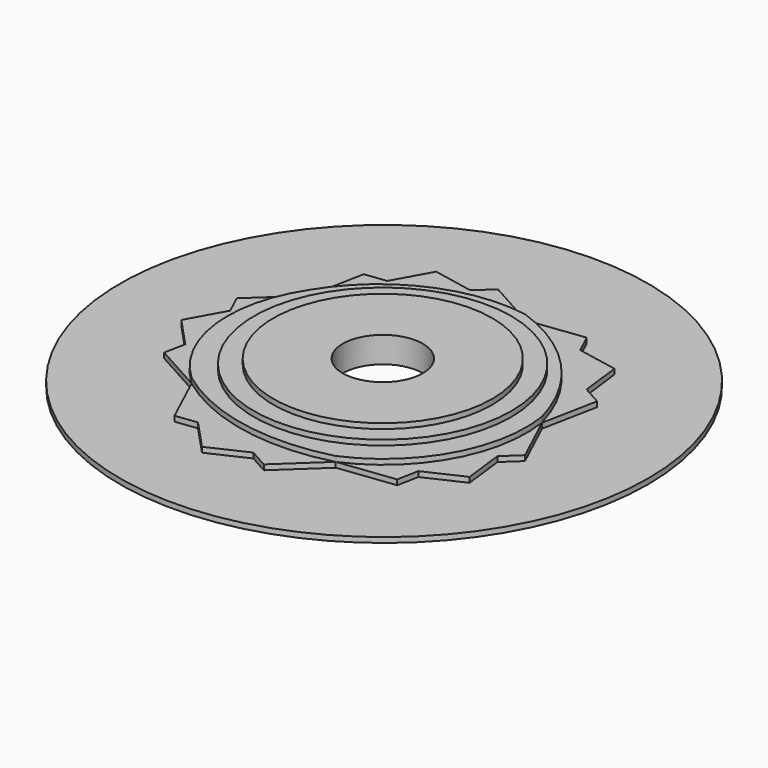
from build123d import *

# Parameters (mm, degrees)
F0_R     = 9.34954834
F1_DEPTH = 2
F2_R     = 9.9314109332
F3_DEPTH = 3
F4_R     = 24.7483511113
F4_R_2   = 9.9812356791
F5_DEPTH = 4
F6_R     = 21.0489130691
F6_R_2   = 7.6981825143
F7_DEPTH = 5
F8_R     = 50.7680243712
F8_R_2   = 10.127452023
F9_DEPTH = 1


with BuildPart() as f1:
    # F0 (on Top) → F1 (new body)
    with BuildSketch(Plane.XY):
        Polygon((-2.3253114279, 7.0025283952), (0.7141198772, 9.8394449822), (-3.8715197243, 19.6616453301), align=None)
        Polygon((-1.3632647613, -0.8739403047), (-2.3253114279, 7.0025283952), (-7.2580368413, 2.3984662733), (-8.5569428744, -4.2228637399), align=None)
        Polygon((-7.2580368413, 2.3984662733), (-2.3253114279, 7.0025283952), (-3.8715197243, 19.6616453301), align=None)
        Polygon((-7.2580368413, 2.3984662733), (-3.8715197243, 19.6616453301), (-11.3136030379, 35.6021988113), (-26.6853706311, 44.1575836885), (-44.1454681102, 42.0056437837), (-57.0322600669, 30.0299833677), (-60.3811104422, 12.7594578836), (-52.9738182843, -3.1972921683), (-37.5834241603, -11.7191240163), (-20.1186738854, -9.6052774824), align=None)
        with Locations((-32.1363285184, 16.2093285471)):
            Circle(F0_R, mode=Mode.SUBTRACT)
        Polygon((-5.4177280207, 32.3207622651), (-3.8715197243, 19.6616453301), (-1.7848262074, 30.2988169654), align=None)
        Polygon((-11.3136030379, 35.6021988113), (-3.8715197243, 19.6616453301), (-5.4177280207, 32.3207622651), align=None)
        Polygon((-8.5569428744, -4.2228637399), (-7.2580368413, 2.3984662733), (-20.1186738854, -9.6052774824), align=None)
        Polygon((-26.6853706311, 44.1575836885), (-11.3136030379, 35.6021988113), (-14.1680303391, 41.7162328976), align=None)
        Polygon((-14.1680303391, 41.7162328976), (-11.3136030379, 35.6021988113), (-5.4177280207, 32.3207622651), (-6.3797746873, 40.197230965), align=None)
        Polygon((-8.5569428744, -4.2228637399), (-20.1186738854, -9.6052774824), (-9.3572987281, -8.3027741418), align=None)
        Polygon((-31.6804048965, -14.9876912249), (-20.1186738854, -9.6052774824), (-37.5834241603, -11.7191240163), align=None)
        Polygon((-28.0431009638, -17.0017067365), (-20.1186738854, -9.6052774824), (-31.6804048965, -14.9876912249), align=None)
        Polygon((-26.6853706311, 44.1575836885), (-14.1680303391, 41.7162328976), (-15.9268624188, 45.4835592832), align=None)
        Polygon((-39.202710923, 46.5989344794), (-26.6853706311, 44.1575836885), (-36.1570982709, 49.4292139626), align=None)
        Polygon((-44.1454681102, 42.0056437837), (-26.6853706311, 44.1575836885), (-39.202710923, 46.5989344794), align=None)
        Polygon((-44.2820672543, -12.5298944689), (-37.5834241603, -11.7191240163), (-52.9738182843, -3.1972921683), align=None)
        Polygon((-31.6804048965, -14.9876912249), (-37.5834241603, -11.7191240163), (-44.2820672543, -12.5298944689), (-38.8740830096, -18.3366146601), align=None)
        Polygon((-57.0322600669, 30.0299833677), (-44.1454681102, 42.0056437837), (-50.8423266141, 41.1802625354), align=None)
        Polygon((-50.8423266141, 41.1802625354), (-44.1454681102, 42.0056437837), (-39.202710923, 46.5989344794), (-46.9909665748, 48.117936412), align=None)
        Polygon((-44.2820672543, -12.5298944689), (-52.9738182843, -3.1972921683), (-48.4096161882, -13.0294724686), align=None)
        Polygon((-61.6655693143, 6.1353101322), (-52.9738182843, -3.1972921683), (-60.3811104422, 12.7594578836), align=None)
        Polygon((-62.4570231615, 2.0536635052), (-52.9738182843, -3.1972921683), (-61.6655693143, 6.1353101322), align=None)
        Polygon((-57.0322600669, 30.0299833677), (-50.8423266141, 41.1802625354), (-54.968775925, 40.6716817015), align=None)
        Polygon((-63.2221935197, 18.8797042), (-57.0322600669, 30.0299833677), (-64.9728031974, 22.650858418), align=None)
        Polygon((-60.3811104422, 12.7594578836), (-57.0322600669, 30.0299833677), (-63.2221935197, 18.8797042), align=None)
        Polygon((-61.6655693143, 6.1353101322), (-60.3811104422, 12.7594578836), (-63.2221935197, 18.8797042), (-67.0735535589, 11.9420303234), align=None)
    extrude(amount=F1_DEPTH)

    # F2 (on Top) → F3 (join)
    with BuildSketch(Plane.XY):
        with BuildLine():
            ThreePointArc((-3.9161127061, 19.6736101061), (-12.2738953914, 34.7283526931), (-26.6918931156, 44.142127037))
            ThreePointArc((-26.6918931156, 44.142127037), (-44.0241929939, 41.7700167457), (-57.0044443011, 30.04190512))
            ThreePointArc((-57.0044443011, 30.04190512), (-61.0707346416, 12.665349743), (-52.9653914273, -3.2337950543))
            ThreePointArc((-52.9653914273, -3.2337950543), (-37.2668042058, -10.2120179587), (-20.0973842293, -9.6185086295))
            ThreePointArc((-20.0973842293, -9.6185086295), (-7.0292200811, 2.277912207), (-3.9161127061, 19.6736101061))
        make_face()
        with Locations((-31.4443483949, 17.2526501119)):
            Circle(F2_R, mode=Mode.SUBTRACT)
    extrude(amount=F3_DEPTH)

    # F4 (on Top) → F5 (join)
    with BuildSketch(Plane.XY):
        with Locations((-32.1926809847, 16.7406294495)):
            Circle(F4_R)
        with Locations((-32.1926809847, 16.7406294495)):
            Circle(F4_R_2, mode=Mode.SUBTRACT)
    extrude(amount=F5_DEPTH)

    # F6 (on Top) → F7 (join)
    with BuildSketch(Plane.XY):
        with Locations((-32.0071727037, 16.5551174432)):
            Circle(F6_R)
        with Locations((-32.0071727037, 16.5551174432)):
            Circle(F6_R_2, mode=Mode.SUBTRACT)
    extrude(amount=F7_DEPTH)

    # F8 (on Top) → F9 (join)
    with BuildSketch(Plane.XY):
        with Locations((-32.0829190314, 16.9553998858)):
            Circle(F8_R)
        with Locations((-32.0829190314, 16.9553998858)):
            Circle(F8_R_2, mode=Mode.SUBTRACT)
    extrude(amount=F9_DEPTH)


solid = f1.part
